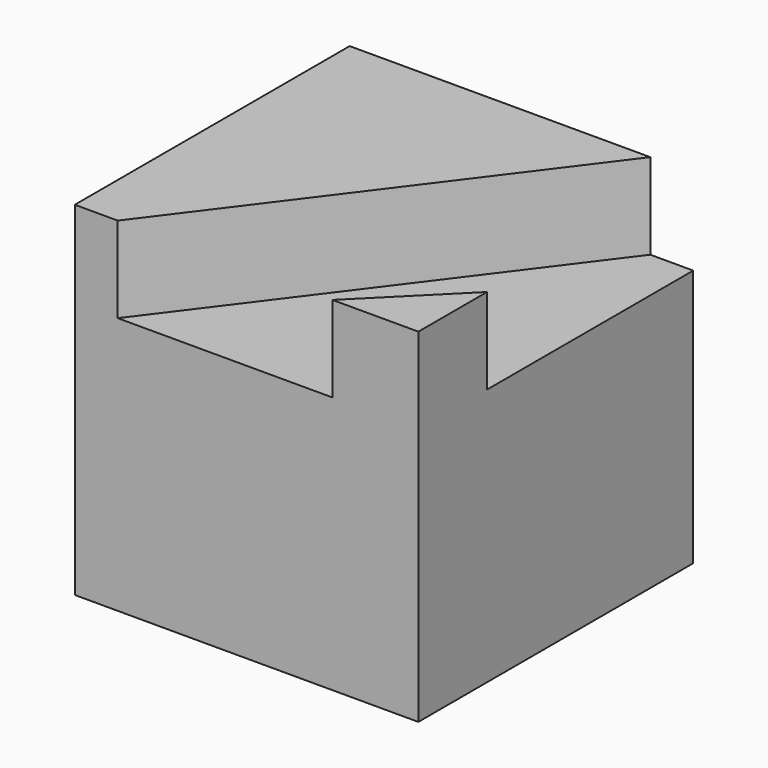
from build123d import *

# Parameters (mm, degrees)
F0_W     = 101.6
F0_H     = 101.6
F1_DEPTH = 76.2
F3_DEPTH = 25.4
F5_DEPTH = 25.4


with BuildPart() as f1:
    # F0 (on Top) → F1 (new body)
    with BuildSketch(Plane.XY):
        with Locations((1.929369, -3.065663)):
            Rectangle(F0_W, F0_H)
    extrude(amount=F1_DEPTH)

    # F2 (on face) → F3 (join)
    with BuildSketch(Plane.XY.offset(76.2)):
        Polygon((-48.870631, 47.734337), (-48.870631, -53.865663), (-36.170631, -53.865663), (40.029369, 47.734337), align=None)
    extrude(amount=F3_DEPTH)

    # F4 (on face) → F5 (join)
    with BuildSketch(Plane.XY.offset(76.2)):
        Polygon((52.729369, -28.465663), (27.329369, -53.865663), (52.729369, -53.865663), align=None)
    extrude(amount=F5_DEPTH)


solid = f1.part
